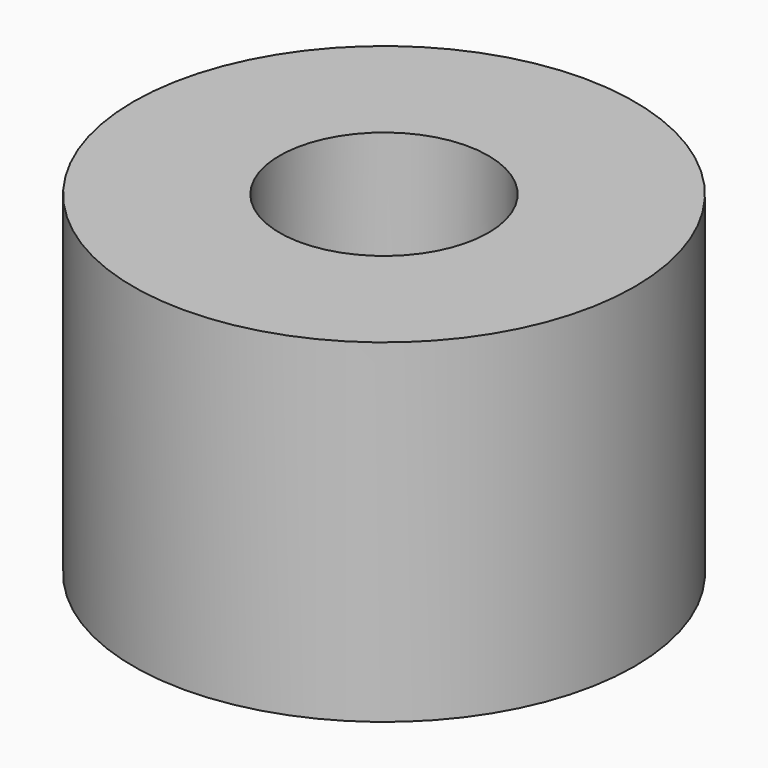
from build123d import *

# Parameters (mm, degrees)
F0_R     = 7.5
F0_R_2   = 3.125
F1_DEPTH = 10
F2_DEPTH = 4


with BuildPart() as f1:
    # F0 (on Top) → F1 (new body)
    with BuildSketch(Plane.XY):
        Circle(F0_R)
        Polygon((3.031089, 5.25), (6.062178, 0), (3.031089, -5.25), (-3.031089, -5.25), (-6.062178, 0), (-3.031089, 5.25), align=None, mode=Mode.SUBTRACT)
        Polygon((3.031089, -5.25), (6.062178, 0), (3.031089, 5.25), (-3.031089, 5.25), (-6.062178, 0), (-3.031089, -5.25), align=None)
        Circle(F0_R_2, mode=Mode.SUBTRACT)
    extrude(amount=F1_DEPTH)

    # F0 (on Top) → F2 (cut)
    with BuildSketch(Plane.XY):
        Polygon((3.031089, -5.25), (6.062178, 0), (3.031089, 5.25), (-3.031089, 5.25), (-6.062178, 0), (-3.031089, -5.25), align=None)
        Circle(F0_R_2, mode=Mode.SUBTRACT)
    extrude(amount=F2_DEPTH, mode=Mode.SUBTRACT)


solid = f1.part
